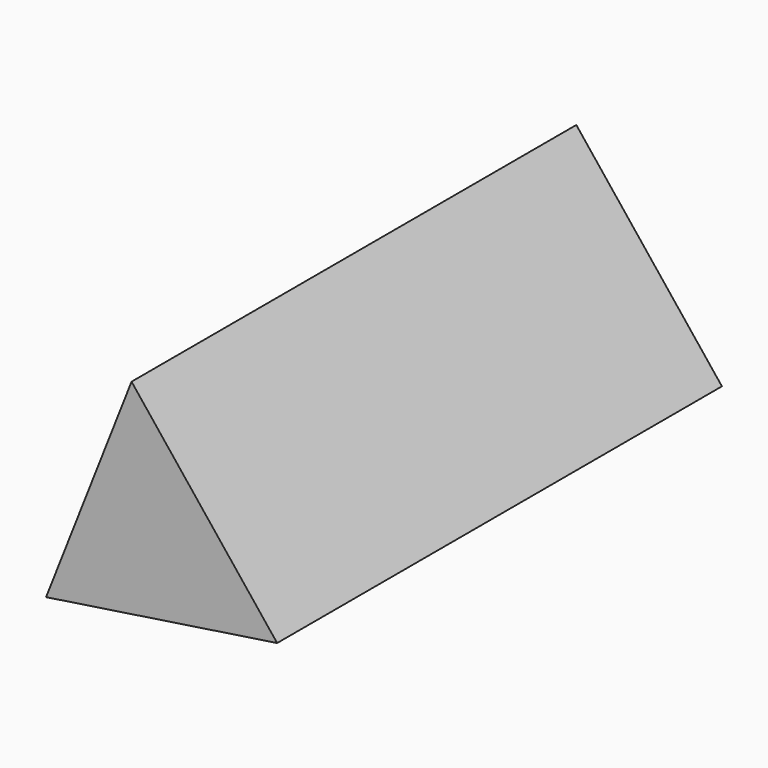
from build123d import *

# Parameters (mm, degrees)
F1_DEPTH = 228.6
F2_T     = 19.05


with BuildPart() as f1:
    # F0 (on Front) → F1 (new body)
    with BuildSketch(Plane.XZ):
        Polygon((20.4729149157, -8.0454803992), (-3.2688670465, 21.7528046061), (-17.2040478692, -13.7073242069), align=None)
    extrude(amount=F1_DEPTH)

    # F2
    f2_openings = [f1.faces().sort_by_distance(p)[0] for p in [
        (0, 0, 0),
    ]]
    offset(amount=F2_T, openings=f2_openings, kind=Kind.INTERSECTION)


solid = f1.part
